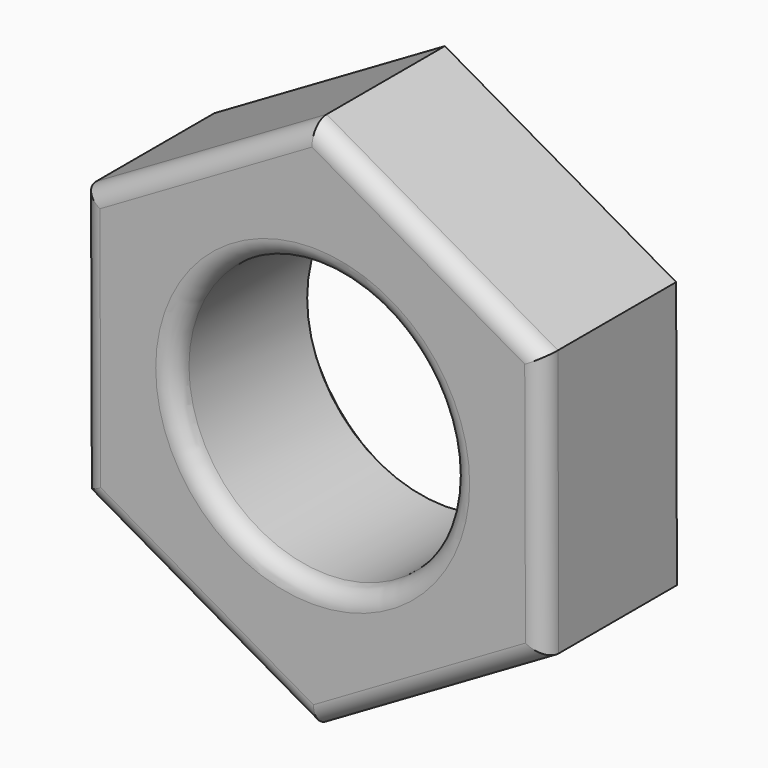
from build123d import *

# Parameters (mm, degrees)
F0_R     = 1.5
F1_DEPTH = 2
F2_R     = 0.2
F3_SIZE  = 0.2


with BuildPart() as f1:
    # F0 (on Front) → F1 (new body)
    with BuildSketch(Plane.XZ):
        Polygon((2.495633, 1.450914), (-0.008712, 2.886738), (-2.504345, 1.435824), (-2.495633, -1.450914), (0.008712, -2.886738), (2.504345, -1.435824), align=None)
        Circle(F0_R, mode=Mode.SUBTRACT)
    extrude(amount=F1_DEPTH)

    # F2
    f2_edges = [f1.edges().sort_by_distance(p)[0] for p in [
        (1.24346, -2, 2.168826),
        (-1.256528, -2, 2.161281),
        (-2.499989, -2, -0.007545),
        (-1.24346, -2, -2.168826),
        (1.256528, -2, -2.161281),
        (2.499989, -2, 0.007545),
        (-1.5, -2, 0),
    ]]
    fillet(f2_edges, radius=F2_R)

    # F3
    f3_edges = [f1.edges().sort_by_distance(p)[0] for p in [
        (1.24346, 0, 2.168826),
        (-1.256528, 0, 2.161281),
        (-2.499989, 0, -0.007545),
        (-1.24346, 0, -2.168826),
        (1.256528, 0, -2.161281),
        (2.499989, 0, 0.007545),
        (-1.5, 0, 0),
    ]]
    chamfer(f3_edges, length=F3_SIZE)


solid = f1.part
